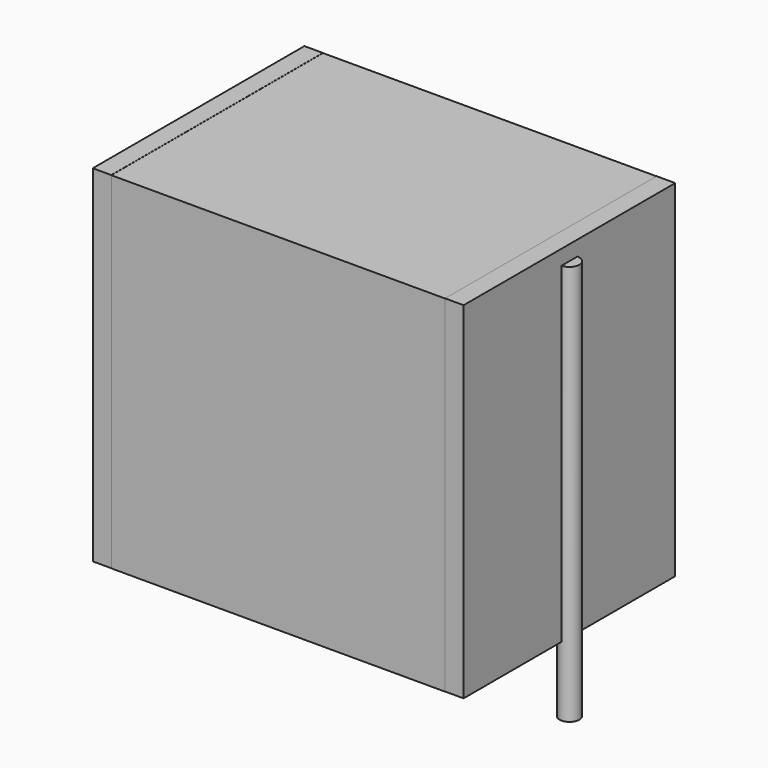
from build123d import *

# Parameters (mm, degrees)
SKETCH_W          = 13.5
SKETCH_H          = 10.7
PAD_DEPTH         = 14
SKETCH001_R       = 0.4
PAD001_DEPTH      = 13
PAD001_DEPTH_BACK = 3.2
SKETCH002_W       = 0.75
SKETCH002_H       = 10.7
PAD002_DEPTH      = 14


with BuildPart() as pad:
    # Sketch → Pad (new body)
    with BuildSketch(Plane.XY.offset(0.1)):
        with Locations((7.5, 0)):
            Rectangle(SKETCH_W, SKETCH_H)
    extrude(amount=PAD_DEPTH)


with BuildPart() as pad001:
    # Sketch001 → Pad001 (new body, two sides)
    with BuildSketch(Plane.XY.offset(0.5)) as pad001_sk:
        Circle(SKETCH001_R)
        with Locations((15, 0)):
            Circle(SKETCH001_R)
    extrude(amount=PAD001_DEPTH)
    extrude(pad001_sk.sketch, amount=-PAD001_DEPTH_BACK)


with BuildPart() as pad002:
    # Sketch002 → Pad002 (new body)
    with BuildSketch(Plane.XY.offset(0.105)):
        with Locations((0.375, 0)):
            Rectangle(SKETCH002_W, SKETCH002_H)
        with Locations((14.625, 0)):
            Rectangle(SKETCH002_W, SKETCH002_H)
    extrude(amount=PAD002_DEPTH)


solid = Compound([pad.part, pad001.part, pad002.part])
